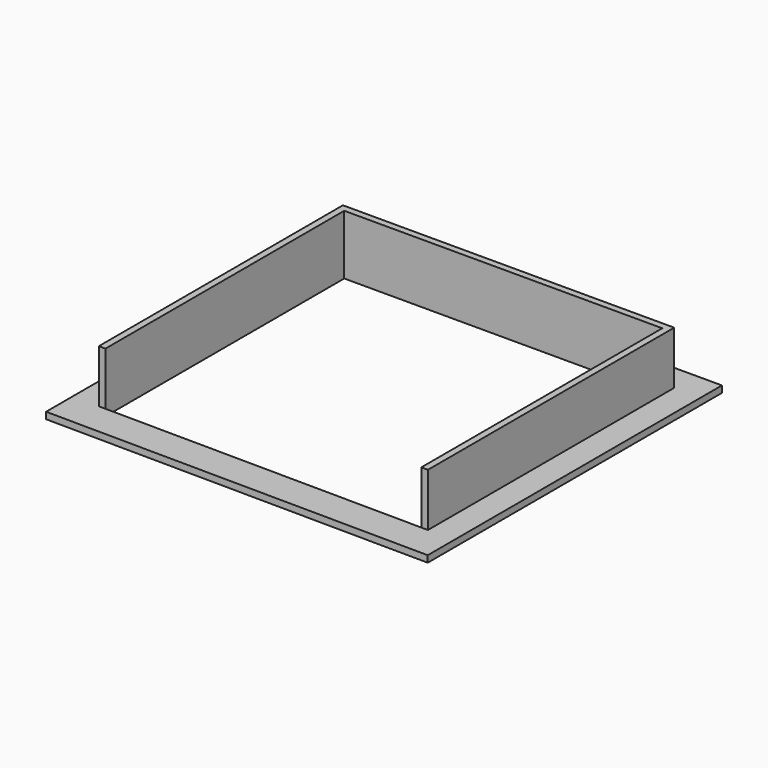
from build123d import *

# Parameters (mm, degrees)
F1_DEPTH = 9
F2_DEPTH = 1


with BuildPart() as f1:
    # F0 (on Top) → F1 (new body)
    with BuildSketch(Plane.XY):
        Polygon((-24, -22.542918), (-24, 22.5), (24, 22.5), (24, -22.956711), (25, -22.956711), (25, 23.5), (-25, 23.5), (-25, -22.542918), align=None)
    extrude(amount=F1_DEPTH)

    # F0 (on Top) → F2 (join)
    with BuildSketch(Plane.XY):
        Polygon((29, 27.5), (-29, 27.5), (-29, -27.5), (29, -28), align=None)
        Polygon((24, -22.956711), (-24, -22.542918), (-25, -22.542918), (-25, 23.5), (25, 23.5), (25, -22.956711), align=None, mode=Mode.SUBTRACT)
    extrude(amount=F2_DEPTH)


solid = f1.part
